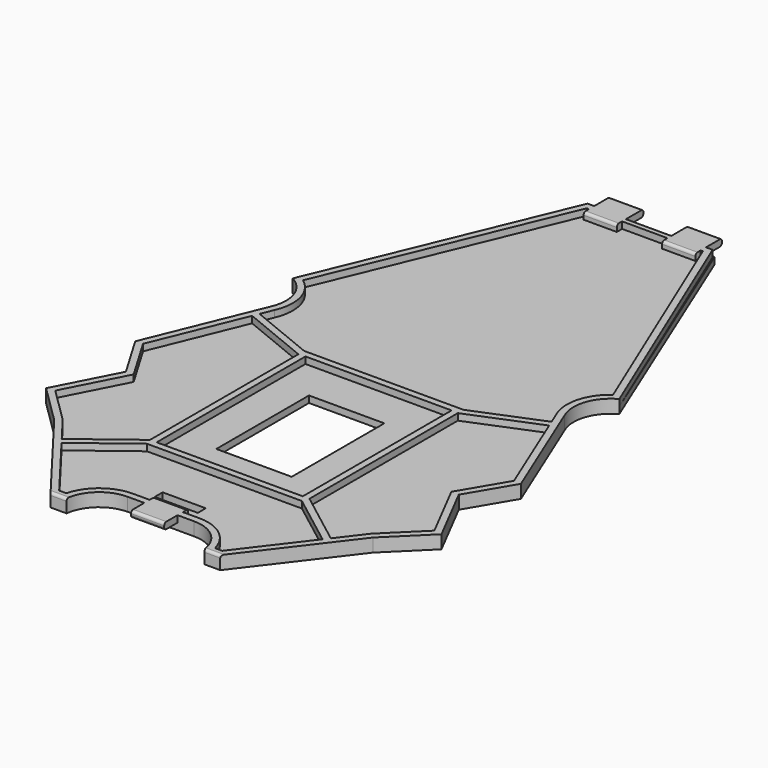
from build123d import *

# Parameters (mm, degrees)
SKETCH070_W     = 11.35
SKETCH070_H     = 17.44
PAD008_DEPTH    = 1
SKETCH071_W     = 5
SKETCH071_H     = 5
SKETCH071_H_2   = 4.5
PAD009_DEPTH    = 1
SKETCH077_W     = 6.5
SKETCH077_H     = 1.5
POCKET030_DEPTH = 5
SKETCH090_W     = 22
SKETCH090_H     = 28
PAD021_DEPTH    = 1
FILLET016_R     = 0.4


with BuildPart() as part:
    # Sketch070 → Pad008 (new body)
    with BuildSketch(Plane.XY):
        with BuildLine():
            Line((-9.548198, 6.6), (9.548198, 6.6))
            Line((9.548198, 6.6), (24.582245, -30.129227))
            ThreePointArc((24.582245, -30.129227), (21.935707, -33.270294), (22.144365, -37.372358))
            Line((29.035486, -54.207849), (22.144365, -37.372358))
            Line((25.057074, -60.930809), (29.035486, -54.207849))
            Line((29.76445, -70.068592), (25.057074, -60.930809))
            Line((23.9869, -75.767923), (29.76445, -70.068592))
            Line((12.771037, -90.465016), (23.9869, -75.767923))
            Line((10.366563, -90.465016), (12.771037, -90.465016))
            ThreePointArc((10.366563, -90.465016), (8.6, -87.040094), (5, -85.665016))
            Line((-5, -85.665016), (5, -85.665016))
            ThreePointArc((-5, -85.665016), (-8.6, -87.040094), (-10.366563, -90.465016))
            Line((-12.771037, -90.465016), (-10.366563, -90.465016))
            Line((-23.9869, -75.767923), (-12.771037, -90.465016))
            Line((-29.76445, -70.068592), (-23.9869, -75.767923))
            Line((-25.057074, -60.930809), (-29.76445, -70.068592))
            Line((-29.035486, -54.207849), (-25.057074, -60.930809))
            Line((-22.144365, -37.372358), (-29.035486, -54.207849))
            ThreePointArc((-22.144365, -37.372358), (-21.935707, -33.270294), (-24.582245, -30.129227))
            Line((-24.582245, -30.129227), (-9.548198, 6.6))
        make_face()
        with Locations((0.005, -59.43)):
            Rectangle(SKETCH070_W, SKETCH070_H, mode=Mode.SUBTRACT)
    extrude(amount=PAD008_DEPTH)

    # Sketch071 (on Face26 of Pad008) → Pad009 (join)
    with BuildSketch(Plane.XY.offset(1)):
        with Locations((-5.913956, 6.9)):
            Rectangle(SKETCH071_W, SKETCH071_H)
        with Locations((5.913956, 6.9)):
            Rectangle(SKETCH071_W, SKETCH071_H)
        with Locations((0, -85.915016)):
            Rectangle(SKETCH071_W, SKETCH071_H_2)
    extrude(amount=PAD009_DEPTH)

    # Sketch077 (on Face5 of Pad009) → Pocket030 (cut)
    with BuildSketch(Plane.XY.offset(1)):
        with Locations((-0.45, -81.465016)):
            Rectangle(SKETCH077_W, SKETCH077_H)
    extrude(amount=-POCKET030_DEPTH, mode=Mode.SUBTRACT)

    # Sketch090 (on Face5 of Pocket030) → Pad021 (join)
    with BuildSketch(Plane.XY.offset(1)):
        with BuildLine():
            Line((-9.413956, 6.4), (9.413956, 6.4))
            Line((9.413956, 6.4), (24.582245, -30.129227))
            ThreePointArc((24.582245, -30.129227), (21.935707, -33.270294), (22.144365, -37.372358))
            Line((22.144365, -37.372358), (29.035486, -54.207849))
            Line((29.035486, -54.207849), (25.057074, -60.930809))
            Line((25.057074, -60.930809), (29.76445, -70.068592))
            Line((29.76445, -70.068592), (23.9869, -75.767923))
            Line((23.9869, -75.767923), (12.771037, -90.465016))
            Line((12.771037, -90.465016), (10.366563, -90.465016))
            ThreePointArc((10.366563, -90.465016), (8.6, -87.040094), (5, -85.665016))
            Line((-5, -85.665016), (5, -85.665016))
            ThreePointArc((-5, -85.665016), (-8.6, -87.040094), (-10.366563, -90.465016))
            Line((-10.366563, -90.465016), (-12.771037, -90.465016))
            Line((-12.771037, -90.465016), (-23.9869, -75.767923))
            Line((-23.9869, -75.767923), (-29.76445, -70.068592))
            Line((-29.76445, -70.068592), (-25.057074, -60.930809))
            Line((-25.057074, -60.930809), (-29.035486, -54.207849))
            Line((-29.035486, -54.207849), (-22.144365, -37.372358))
            ThreePointArc((-22.144365, -37.372358), (-21.935707, -33.270294), (-24.582245, -30.129227))
            Line((-24.582245, -30.129227), (-9.413956, 6.4))
        make_face()
        with BuildLine():
            Line((-8.746409, 5.4), (8.746409, 5.4))
            Line((8.746409, 5.4), (23.336592, -29.736995))
            ThreePointArc((23.336592, -29.736995), (20.922218, -33.157742), (21.051699, -37.342708))
            Line((21.985036, -39.622914), (21.051699, -37.342708))
            Line((12, -43.71), (21.985036, -39.622914))
            Line((-12, -43.71), (12, -43.71))
            Line((-21.985036, -39.622914), (-12, -43.71))
            Line((-21.225759, -37.767948), (-21.985036, -39.622914))
            ThreePointArc((-21.225759, -37.767948), (-20.859949, -33.37892), (-23.336592, -29.736995))
            Line((-8.746409, 5.4), (-23.336592, -29.736995))
        make_face(mode=Mode.SUBTRACT)
        Polygon((-27.921656, -54.126491), (-23.914923, -60.897309), (-28.538789, -69.872986), (-23.234585, -75.10538), (-20.25505, -79.009716), (-12, -72.71), (-12, -44.790529), (-22.363851, -40.548387), align=None, mode=Mode.SUBTRACT)
        with BuildLine():
            Line((12.276247, -89.465016), (19.648388, -79.804676))
            Line((19.648388, -79.804676), (11.662019, -73.71))
            Line((11.662019, -73.71), (-11.662019, -73.71))
            Line((-11.662019, -73.71), (-19.648388, -79.804676))
            Line((-19.648388, -79.804676), (-12.276247, -89.465016))
            Line((-12.276247, -89.465016), (-11.196773, -89.465016))
            ThreePointArc((-5, -84.665016), (-8.919184, -86.005372), (-11.196773, -89.465016))
            Line((-5, -84.665016), (5, -84.665016))
            ThreePointArc((11.196773, -89.465016), (8.919184, -86.005372), (5, -84.665016))
            Line((11.196773, -89.465016), (12.276247, -89.465016))
        make_face(mode=Mode.SUBTRACT)
        Polygon((23.234585, -75.10538), (28.538789, -69.872986), (23.914923, -60.897309), (27.921656, -54.126491), (22.363851, -40.548387), (12, -44.790529), (12, -72.71), (20.25505, -79.009716), align=None, mode=Mode.SUBTRACT)
        with Locations((0, -58.71)):
            Rectangle(SKETCH090_W, SKETCH090_H, mode=Mode.SUBTRACT)
    extrude(amount=PAD021_DEPTH)

    # Fillet016
    fillet016_edges = [part.edges().sort_by_distance(p)[0] for p in [
        (0, -88.165016, 2),
        (0, -88.165016, 1),
        (0, -83.665016, 2),
        (-5.913956, 4.4, 2),
        (5.913956, 4.4, 2),
        (5.913956, 9.4, 2),
        (-5.913956, 9.4, 2),
        (-5.913956, 9.4, 1),
        (5.913956, 9.4, 1),
        (-11.5688, -90.465016, 2),
        (11.5688, -90.465016, 2),
        (0, 6.4, 2),
    ]]
    fillet(fillet016_edges, radius=FILLET016_R)


with BuildPart() as part_1:
    # Body005 placement: moved
    add(part.part.moved(Location((0, 0, 0.5))))


solid = part_1.part
